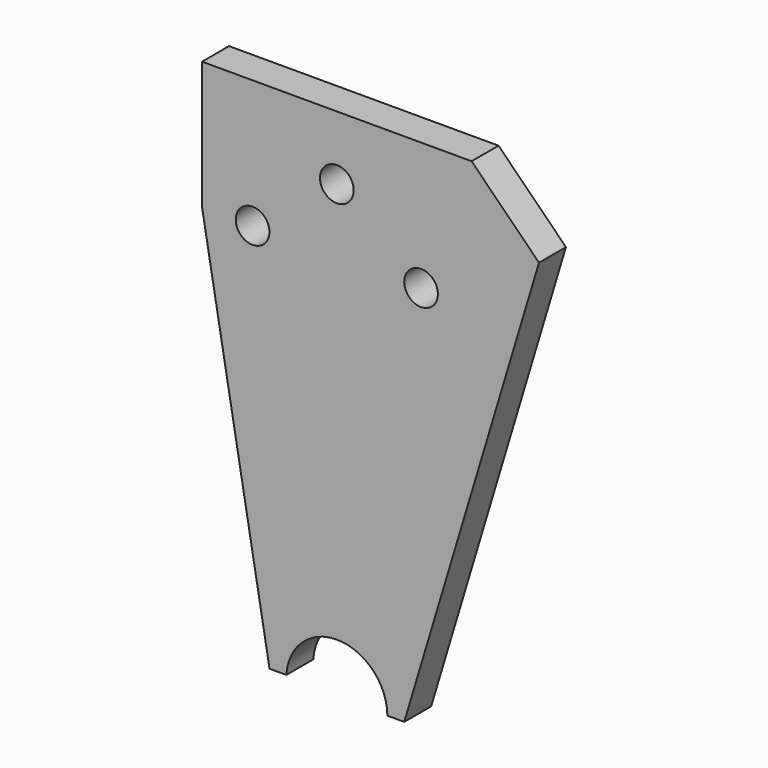
from build123d import *

# Parameters (mm, degrees)
F1_DEPTH = 10
F3_D     = 10


with BuildPart() as f1:
    # F0 (on Front) → F1 (new body)
    with BuildSketch(Plane.XZ):
        with BuildLine():
            Line((18.099814, 38), (-61.900186, 38))
            Line((-61.900186, 38), (-61.900186, 0))
            Line((-61.900186, 0), (-41.873158, -114.099939))
            Line((-41.873158, -114.099939), (-36.873158, -114.099939))
            ThreePointArc((-36.873158, -114.099939), (-21.449952, -100.006759), (-6.900186, -115))
            Line((-6.900186, -115), (-1.900186, -115))
            Line((-1.900186, -115), (38.099814, 18))
            Line((38.099814, 18), (18.099814, 38))
        make_face()
    extrude(amount=F1_DEPTH)

    # F3 (through all)
    with Locations(Plane.XZ.offset(10)):
        with Locations((-46.900186, 0), (-21.900186, 19), (3.099814, 0)):
            Hole(F3_D / 2)


solid = f1.part
